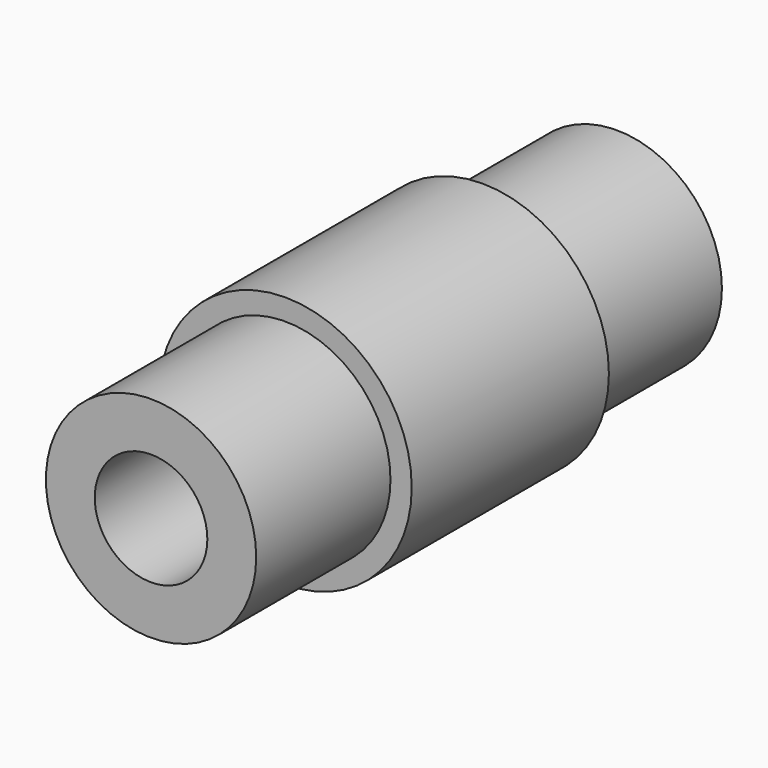
from build123d import *

# Parameters (mm, degrees)
F0_R     = 5.95
F1_DEPTH = 5.8
F2_R     = 4.95
F3_DEPTH = 7.9
F5_R     = 2.65
F6_DEPTH = 35


with BuildPart() as f1:
    # F0 (on Front) → F1 (new body)
    with BuildSketch(Plane.XZ):
        Circle(F0_R)
    extrude(amount=F1_DEPTH)

    # F2 (on face) → F3 (join)
    with BuildSketch(Plane.XZ.offset(5.8)):
        Circle(F2_R)
    extrude(amount=F3_DEPTH)

    # F4: F1 across face


with BuildPart() as f1_1:
    add(f1.part)
    add(f1.part.mirror(Plane(origin=(0, 0, 0), x_dir=(1, 0, 0), z_dir=(0, 1, 0))))

    # F5 (on face) → F6 (cut)
    with BuildSketch(Plane.XZ.offset(13.7)):
        Circle(F5_R)
    extrude(amount=-F6_DEPTH, mode=Mode.SUBTRACT)


solid = f1_1.part
